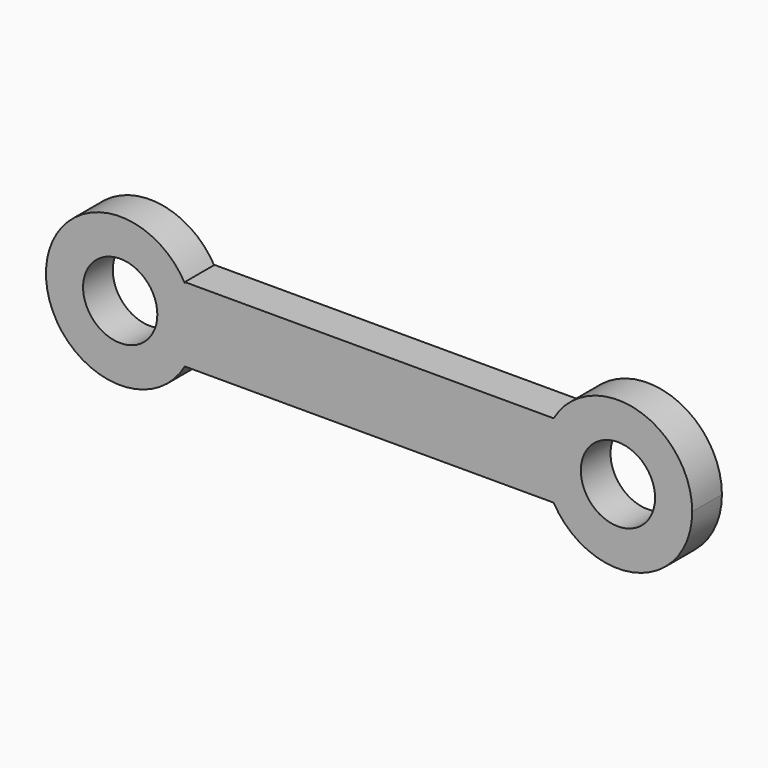
from build123d import *

# Parameters (mm, degrees)
F0_R     = 6.35
F1_DEPTH = 6.35


with BuildPart() as f1:
    # F0 (on Front) → F1 (new body)
    with BuildSketch(Plane.XZ):
        with BuildLine():
            Line((23.6545289272, 21.798003076), (-39.4221442157, 21.798003076))
            Line((-39.4221442157, 21.798003076), (-39.4221442157, 21.6433618178))
            ThreePointArc((-39.4221442157, 21.6433618178), (-38.1862338127, 18.6146310083), (-37.764947008, 15.3706824469))
            ThreePointArc((-37.764947008, 15.3706824469), (-38.1862338127, 12.1267338856), (-39.4221442157, 9.098003076))
            Line((-39.4221442157, 9.098003076), (23.6545289272, 9.098003076))
            ThreePointArc((23.6545289272, 9.098003076), (21.9530515552, 15.448003076), (23.6545289272, 21.798003076))
        make_face()
        with BuildLine():
            Line((-39.4221442157, 9.098003076), (-39.4221442157, 21.6433618178))
            ThreePointArc((-39.4221442157, 21.6433618178), (-63.164947008, 15.3706824469), (-39.4221442157, 9.098003076))
        make_face()
        with Locations((-50.464947008, 15.3706824469)):
            Circle(F0_R, mode=Mode.SUBTRACT)
        with BuildLine():
            ThreePointArc((-37.764947008, 15.3706824469), (-38.1862338127, 18.6146310083), (-39.4221442157, 21.6433618178))
            Line((-39.4221442157, 21.6433618178), (-39.4221442157, 9.098003076))
            ThreePointArc((-39.4221442157, 9.098003076), (-38.1862338127, 12.1267338856), (-37.764947008, 15.3706824469))
        make_face()
        with BuildLine():
            ThreePointArc((47.3530515552, 15.448003076), (37.940053428, 27.7152610699), (23.6545289272, 21.798003076))
            ThreePointArc((23.6545289272, 21.798003076), (21.9530515552, 15.448003076), (23.6545289272, 9.098003076))
            ThreePointArc((23.6545289272, 9.098003076), (37.940053428, 3.1807450821), (47.3530515552, 15.448003076))
        make_face()
        with Locations((34.6530515552, 15.448003076)):
            Circle(F0_R, mode=Mode.SUBTRACT)
    extrude(amount=F1_DEPTH)


solid = f1.part
